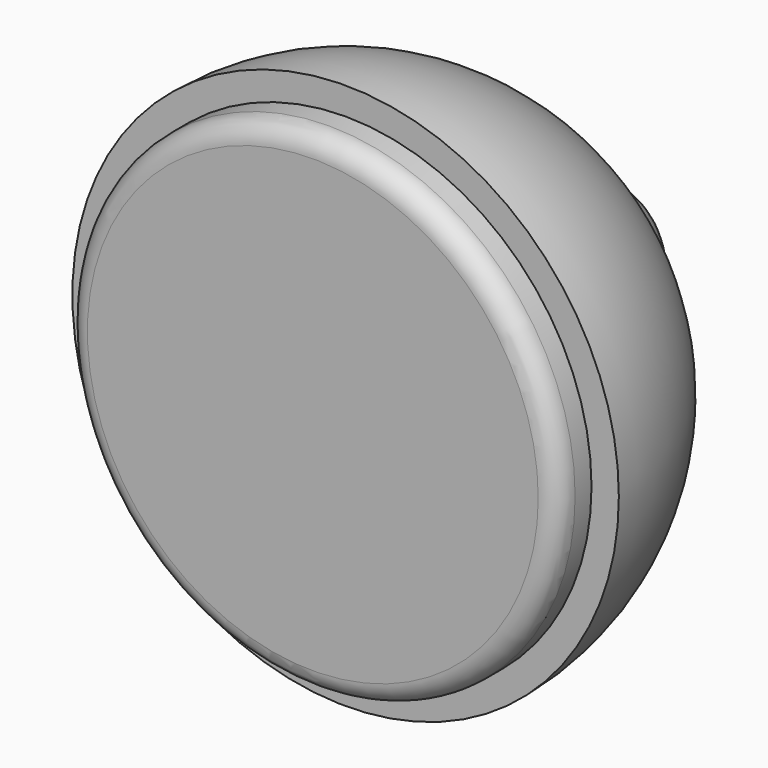
from build123d import *

# Parameters (mm, degrees)
F2_R     = 18
F3_DEPTH = 3
F4_R     = 1.5


with BuildPart() as f1:
    # F0 (on Top) → F1 (revolve)
    with BuildSketch(Plane.XY):
        with BuildLine():
            Line((0, 0), (20, 0))
            ThreePointArc((20, 0), (16.045347, 11.939298), (5.745316, 19.157018))
            ThreePointArc((5.745316, 19.157018), (4.393991, 23.796328), (0, 25.80683))
            Line((0, 25.80683), (0, 14.19317))
            Line((0, 14.19317), (0, 0))
        make_face()
    revolve(axis=Axis((0, 20, 0), (0, 1, 0)))

    # F2 (on Front) → F3 (join)
    with BuildSketch(Plane.XZ):
        Circle(F2_R)
    extrude(amount=F3_DEPTH)

    # F4
    f4_edges = [f1.edges().sort_by_distance(p)[0] for p in [
        (-18, -3, 0),
    ]]
    fillet(f4_edges, radius=F4_R)


solid = f1.part
